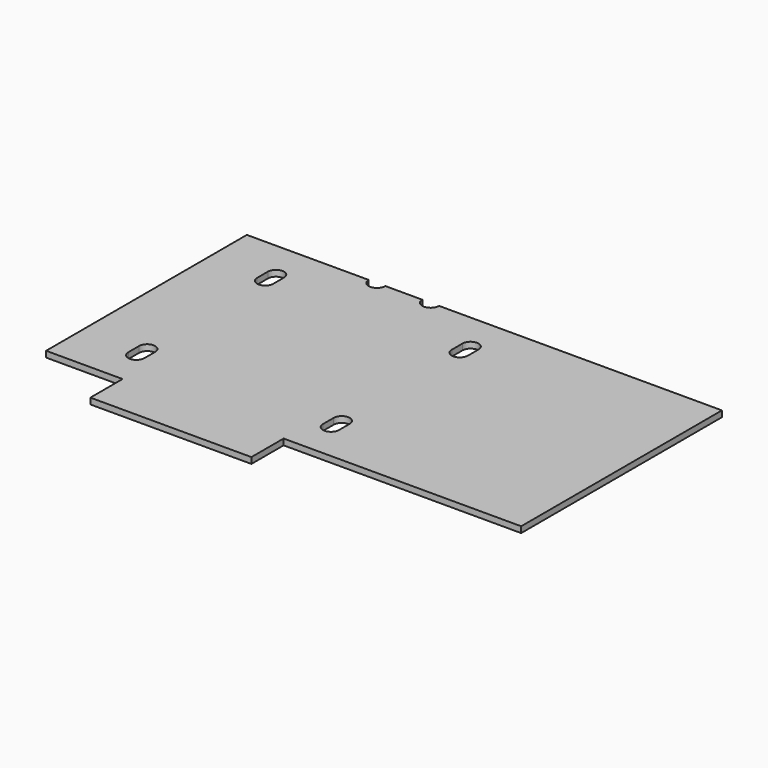
from build123d import *

# Parameters (mm, degrees)
F1_DEPTH = 4.5
F2_W     = 120
F2_H     = 187
F3_DEPTH = 4.5


with BuildPart() as f1:
    # F0 (on Top) → F1 (new body)
    with BuildSketch(Plane.XY):
        with BuildLine():
            Line((0, 187), (0, 0))
            Line((0, 0), (57, 0))
            Line((57, 0), (57, -30))
            Line((57, -30), (177, -30))
            Line((177, -30), (177, 0))
            Line((177, 0), (234, 0))
            Line((234, 0), (234, 187))
            Line((234, 187), (143.26, 187))
            ThreePointArc((143.26, 187), (137, 180.74), (130.74, 187))
            Line((130.74, 187), (103.26, 187))
            ThreePointArc((103.26, 187), (97, 180.74), (90.74, 187))
            Line((90.74, 187), (0, 187))
        make_face()
        with BuildLine():
            ThreePointArc((50.5, 28.5), (44.5, 22.5), (38.5, 28.5))
            Line((38.5, 28.5), (38.5, 38.5))
            ThreePointArc((38.5, 38.5), (44.5, 44.5), (50.5, 38.5))
            Line((50.5, 38.5), (50.5, 28.5))
        make_face(mode=Mode.SUBTRACT)
        with BuildLine():
            ThreePointArc((195.5, 28.5), (189.5, 22.5), (183.5, 28.5))
            Line((183.5, 28.5), (183.5, 38.5))
            ThreePointArc((183.5, 38.5), (189.5, 44.5), (195.5, 38.5))
            Line((195.5, 38.5), (195.5, 28.5))
        make_face(mode=Mode.SUBTRACT)
        with BuildLine():
            ThreePointArc((50.5, 148.5), (44.5, 142.5), (38.5, 148.5))
            Line((38.5, 148.5), (38.5, 158.5))
            ThreePointArc((38.5, 158.5), (44.5, 164.5), (50.5, 158.5))
            Line((50.5, 158.5), (50.5, 148.5))
        make_face(mode=Mode.SUBTRACT)
        with BuildLine():
            ThreePointArc((195.5, 148.5), (189.5, 142.5), (183.5, 148.5))
            Line((183.5, 148.5), (183.5, 158.5))
            ThreePointArc((183.5, 158.5), (189.5, 164.5), (195.5, 158.5))
            Line((195.5, 158.5), (195.5, 148.5))
        make_face(mode=Mode.SUBTRACT)
    extrude(amount=F1_DEPTH)

    # F2 (on Top) → F3 (join)
    with BuildSketch(Plane.XY):
        with Locations((294, 93.5)):
            Rectangle(F2_W, F2_H)
    extrude(amount=F3_DEPTH)


solid = f1.part
